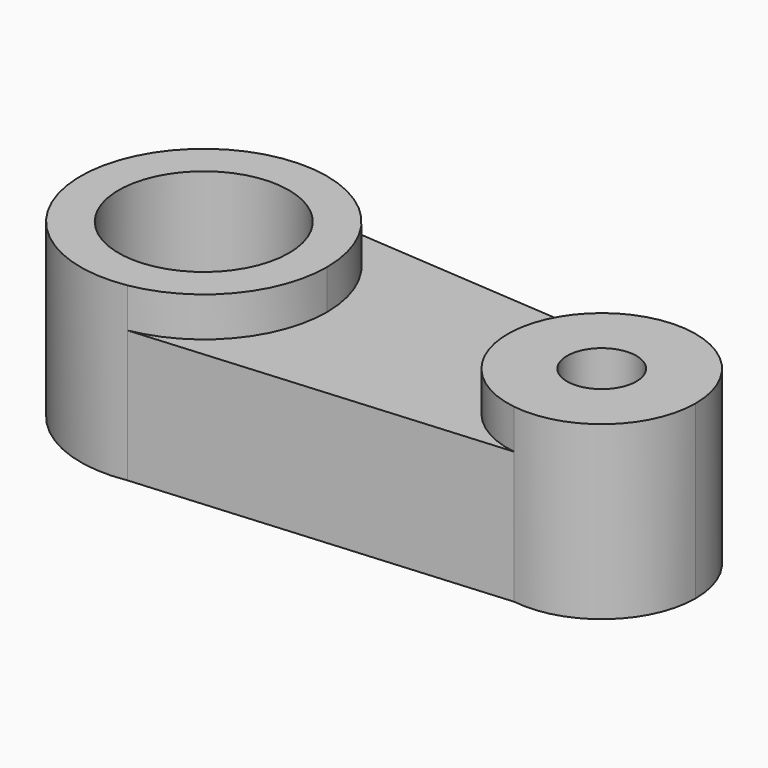
from build123d import *

# Parameters (mm, degrees)
F0_R     = 6.67057
F0_R_2   = 16.382625
F1_DEPTH = 25.4
F2_DEPTH = 33.02
F3_DEPTH = 33.02


with BuildPart() as f1:
    # F0 (on Top) → F1 (new body)
    with BuildSketch(Plane.XY):
        with BuildLine():
            ThreePointArc((2.16147, 23.594849), (17.501457, 15.971471), (23.693646, 0))
            ThreePointArc((23.693646, 0), (18.115203, -15.271813), (4.006657, -23.352421))
            Line((4.006657, -23.352421), (74.018143, -17.896659))
            ThreePointArc((74.018143, -17.896659), (58.571899, 1.926442), (77.868884, 18.025142))
            Line((77.868884, 18.025142), (2.16147, 23.594849))
        make_face()
        with BuildLine():
            ThreePointArc((94.61665, 0), (89.783486, 12.302372), (77.868884, 18.025142))
            ThreePointArc((77.868884, 18.025142), (58.571899, 1.926442), (74.018143, -17.896659))
            ThreePointArc((74.018143, -17.896659), (88.396783, -13.643578), (94.61665, 0))
        make_face()
        with Locations((76.542795, 0)):
            Circle(F0_R, mode=Mode.SUBTRACT)
        with BuildLine():
            ThreePointArc((4.006657, -23.352421), (18.115203, -15.271813), (23.693646, 0))
            ThreePointArc((23.693646, 0), (17.501457, 15.971471), (2.16147, 23.594849))
            ThreePointArc((2.16147, 23.594849), (-23.675367, -0.930522), (4.006657, -23.352421))
        make_face()
        Circle(F0_R_2, mode=Mode.SUBTRACT)
    extrude(amount=F1_DEPTH)

    # F0 (on Top) → F2 (join)
    with BuildSketch(Plane.XY):
        with BuildLine():
            ThreePointArc((4.006657, -23.352421), (18.115203, -15.271813), (23.693646, 0))
            ThreePointArc((23.693646, 0), (17.501457, 15.971471), (2.16147, 23.594849))
            ThreePointArc((2.16147, 23.594849), (-23.675367, -0.930522), (4.006657, -23.352421))
        make_face()
        Circle(F0_R_2, mode=Mode.SUBTRACT)
    extrude(amount=F2_DEPTH)

    # F0 (on Top) → F3 (join)
    with BuildSketch(Plane.XY):
        with BuildLine():
            ThreePointArc((94.61665, 0), (89.783486, 12.302372), (77.868884, 18.025142))
            ThreePointArc((77.868884, 18.025142), (58.571899, 1.926442), (74.018143, -17.896659))
            ThreePointArc((74.018143, -17.896659), (88.396783, -13.643578), (94.61665, 0))
        make_face()
        with Locations((76.542795, 0)):
            Circle(F0_R, mode=Mode.SUBTRACT)
    extrude(amount=F3_DEPTH)


solid = f1.part
